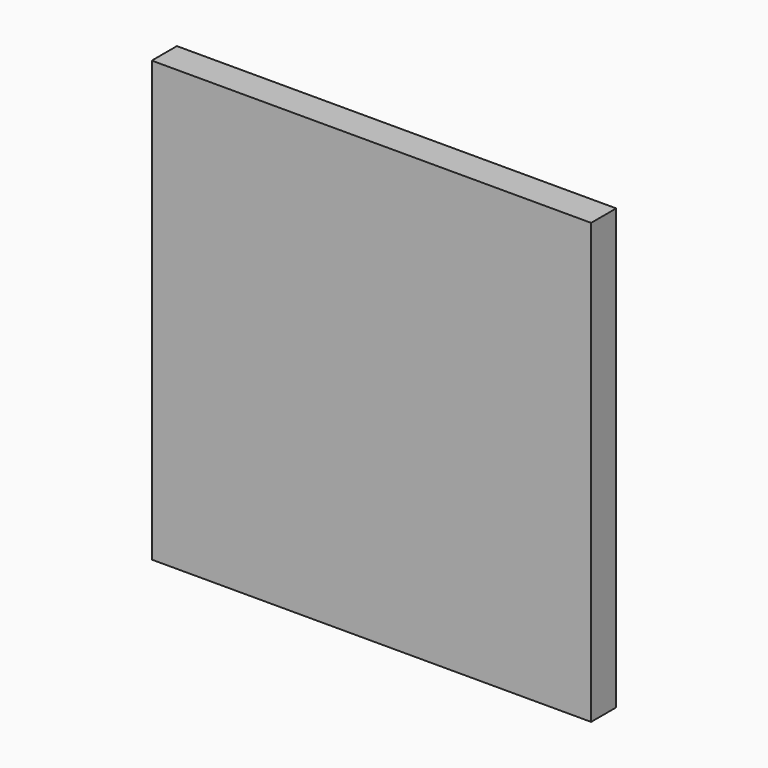
from build123d import *

# Parameters (mm, degrees)
F0_W     = 177.8
F0_H     = 152.4
F1_DEPTH = 25.4


with BuildPart() as f1:
    # F0 (on Front) → F1 (new body)
    with BuildSketch(Plane.XZ):
        with Locations((88.9, 76.2)):
            Rectangle(F0_W, F0_H)
        Polygon((177.8, 152.4), (177.8, 0), (355.6, 0), (355.6, 355.6), (0, 355.6), (0, 304.8), (177.8, 304.8), align=None)
        with Locations((88.9, 228.6)):
            Rectangle(F0_W, F0_H)
    extrude(amount=F1_DEPTH)


solid = f1.part
